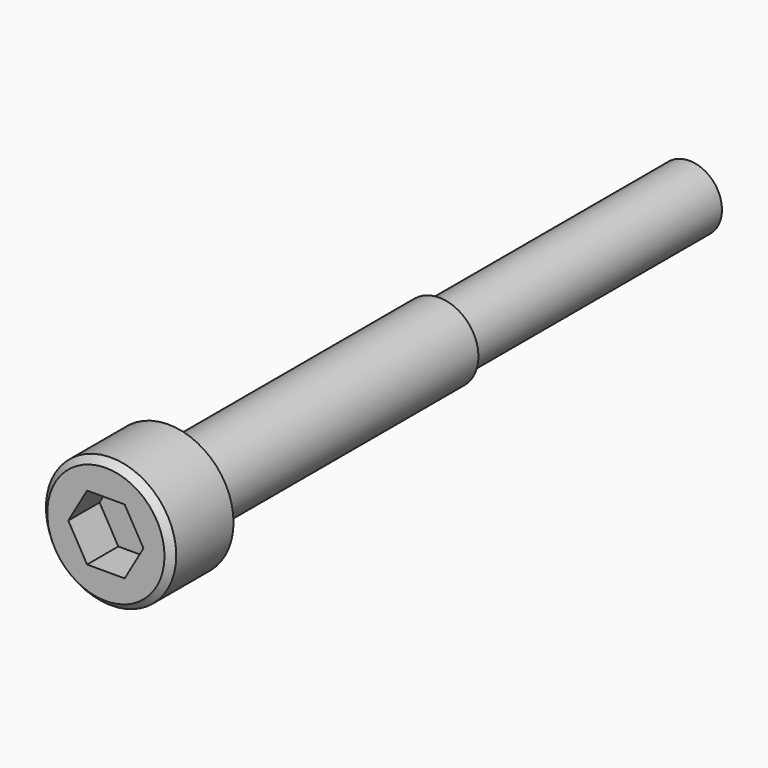
from build123d import *

# Parameters (mm, degrees)
F0_R     = 5
F1_DEPTH = 6
F2_R     = 3
F3_DEPTH = 26
F4_R     = 2.5
F5_DEPTH = 24
F7_DEPTH = 3
F8_SIZE  = 0.5


with BuildPart() as f1:
    # F0 (on Front) → F1 (new body)
    with BuildSketch(Plane.XZ):
        Circle(F0_R)
    extrude(amount=F1_DEPTH)

    # F2 (on face) → F3 (join)
    with BuildSketch(Plane(origin=(0, 0, 0), x_dir=(-1, 0, 0), z_dir=(0, 1, 0))):
        Circle(F2_R)
    extrude(amount=F3_DEPTH)

    # F4 (on face) → F5 (join)
    with BuildSketch(Plane(origin=(0, 26, 0), x_dir=(-1, 0, 0), z_dir=(0, 1, 0))):
        Circle(F4_R)
    extrude(amount=F5_DEPTH)

    # F6 (on face) → F7 (cut)
    with BuildSketch(Plane.XZ.offset(6)):
        Polygon((1.443376, 2.5), (-1.443376, 2.5), (-2.886751, 0), (-1.443376, -2.5), (1.443376, -2.5), (2.886751, 0), align=None)
    extrude(amount=-F7_DEPTH, mode=Mode.SUBTRACT)

    # F8
    f8_edges = [f1.edges().sort_by_distance(p)[0] for p in [
        (-5, -6, 0),
    ]]
    chamfer(f8_edges, length=F8_SIZE)


solid = f1.part
